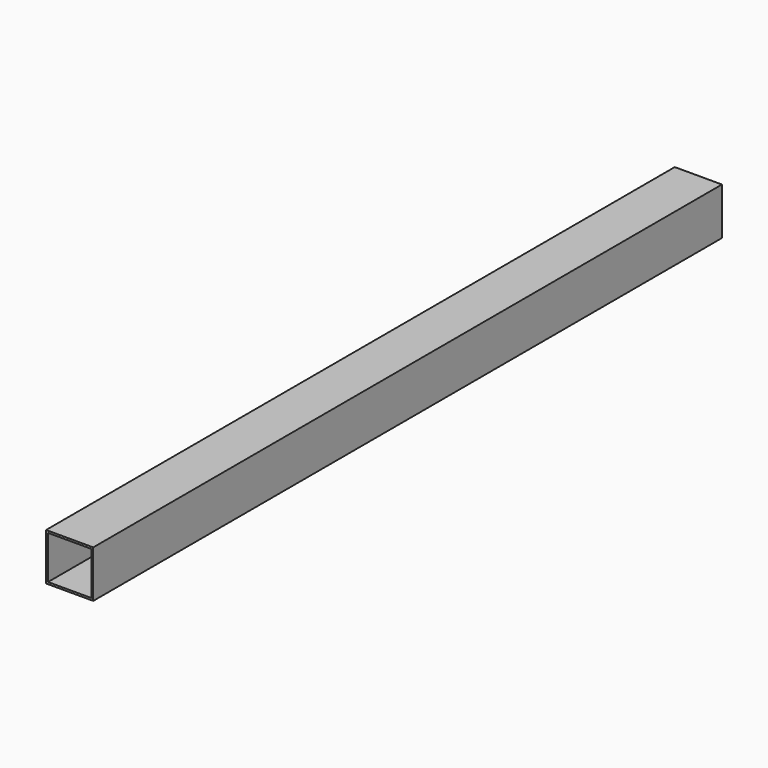
from build123d import *

# Parameters (mm, degrees)
F0_W     = 60
F0_H     = 60
F1_DEPTH = 1000
F2_T     = -2.5


with BuildPart() as f1:
    # F0 (on Front) → F1 (new body)
    with BuildSketch(Plane.XZ):
        Rectangle(F0_W, F0_H)
    extrude(amount=F1_DEPTH)

    # F2
    f2_openings = [f1.faces().sort_by_distance(p)[0] for p in [
        (0, -1000, 0),
        (0, 0, 0),
    ]]
    offset(amount=F2_T, openings=f2_openings)


solid = f1.part
